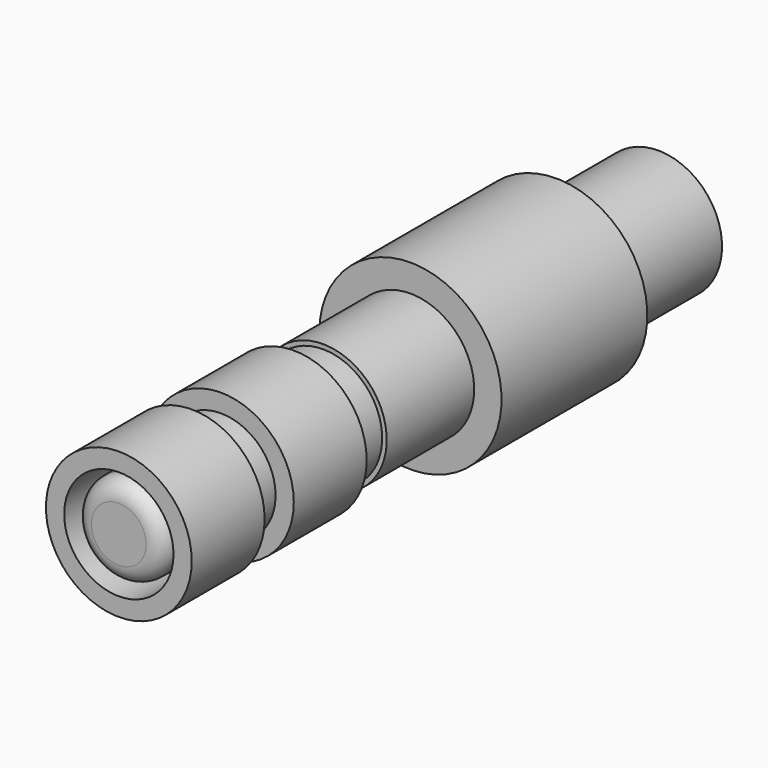
from build123d import *

# Parameters (mm, degrees)
F0_R      = 4
F1_DEPTH  = 5
F2_R      = 3
F3_DEPTH  = 2
F4_R      = 4
F4_R_2    = 3
F5_DEPTH  = 5
F6_R      = 1
F7_DEPTH  = 3
F8_R      = 2.5
F8_R_2    = 1
F9_DEPTH  = 2
F10_R     = 1
F4_R_3    = 2
F11_DEPTH = 1
F12_R     = 3.25
F13_DEPTH = 2
F14_R     = 3.5
F14_R_2   = 3.25
F15_DEPTH = 6
F16_R     = 5
F16_R_2   = 3.5
F17_DEPTH = 10
F18_R     = 3.5
F19_DEPTH = 7


with BuildPart() as f1:
    # F0 (on Front) → F1 (new body)
    with BuildSketch(Plane.XZ):
        Circle(F0_R)
    extrude(amount=F1_DEPTH)

    # F2 (on face) → F3 (join)
    with BuildSketch(Plane.XZ.offset(5)):
        Circle(F2_R)
    extrude(amount=F3_DEPTH)

    # F6 (on face) → F7 (join)
    with BuildSketch(Plane.XZ.offset(7)):
        Circle(F6_R)
    extrude(amount=F7_DEPTH)

    # F8 (on face) → F9 (join)
    with BuildSketch(Plane.XZ.offset(10)):
        Circle(F8_R)
        Circle(F8_R_2, mode=Mode.SUBTRACT)
        Circle(F8_R_2)
    extrude(amount=F9_DEPTH)

    # F10
    f10_edges = [f1.edges().sort_by_distance(p)[0] for p in [
        (-2.5, -12, 0),
    ]]
    fillet(f10_edges, radius=F10_R)



with BuildPart() as f5:
    # F4 (on face) → F5 (new body)
    with BuildSketch(Plane.XZ.offset(7)):
        Circle(F4_R)
        Circle(F4_R_2, mode=Mode.SUBTRACT)
    extrude(amount=F5_DEPTH)


with BuildPart() as f1_1:
    add(f1.part)

    add(f5.part)  # F11 merges F5
    # F4 (on face) → F11 (join)
    with BuildSketch(Plane.XZ.offset(7)):
        Circle(F4_R)
        Circle(F4_R_2, mode=Mode.SUBTRACT)
        Circle(F4_R_2)
        Circle(F4_R_3, mode=Mode.SUBTRACT)
    extrude(amount=F11_DEPTH)

    # F12 (on face) → F13 (join)
    with BuildSketch(Plane(origin=(0, 0, 0), x_dir=(-1, 0, 0), z_dir=(0, 1, 0))):
        Circle(F12_R)
    extrude(amount=F13_DEPTH)

    # F14 (on face) → F15 (join)
    with BuildSketch(Plane(origin=(0, 2, 0), x_dir=(-1, 0, 0), z_dir=(0, 1, 0))):
        Circle(F14_R)
        Circle(F14_R_2, mode=Mode.SUBTRACT)
        Circle(F14_R_2)
    extrude(amount=F15_DEPTH)

    # F16 (on face) → F17 (join)
    with BuildSketch(Plane(origin=(0, 8, 0), x_dir=(-1, 0, 0), z_dir=(0, 1, 0))):
        Circle(F16_R)
        Circle(F16_R_2, mode=Mode.SUBTRACT)
        Circle(F16_R_2)
    extrude(amount=F17_DEPTH)

    # F18 (on face) → F19 (join)
    with BuildSketch(Plane(origin=(0, 18, 0), x_dir=(-1, 0, 0), z_dir=(0, 1, 0))):
        Circle(F18_R)
    extrude(amount=F19_DEPTH)


solid = f1_1.part
